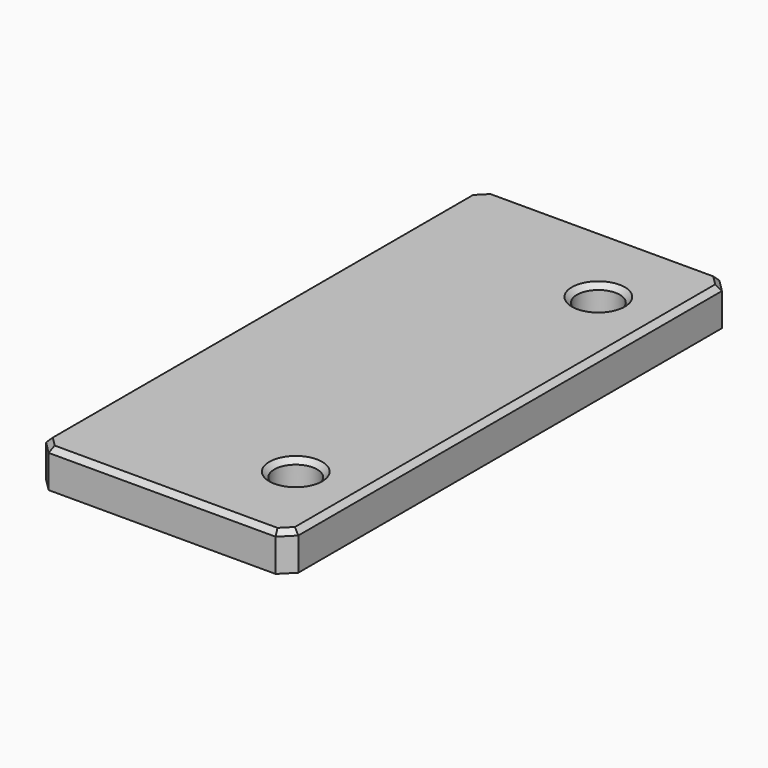
from build123d import *

# Parameters (mm, degrees)
CYLINDER030_R            = 1.7
CYLINDER030_DEPTH        = 30
CYLINDER029_R            = 1.7
CYLINDER029_DEPTH        = 30
BOX051016_W              = 20
BOX051016_H              = 44
BOX051016_DEPTH          = 3
CHAMFER034005002007_SIZE = 1
CHAMFER034005002008_SIZE = 0.4


with BuildPart() as cylinder030:
    # Cylinder030 → Cylinder030 (new body)
    with BuildSketch(Plane(origin=(-98, 37, -7), x_dir=(1, 0, 0), z_dir=(0, 0, 1))):
        Circle(CYLINDER030_R)
    extrude(amount=CYLINDER030_DEPTH)


with BuildPart() as fusion021005008:
    # Cylinder029 → Cylinder029 (new body)
    with BuildSketch(Plane(origin=(-98, 7, -7), x_dir=(1, 0, 0), z_dir=(0, 0, 1))):
        Circle(CYLINDER029_R)
    extrude(amount=CYLINDER029_DEPTH)

    # Fusion021005008: union Cylinder030
    add(cylinder030.part)


with BuildPart() as cable_route_cap:
    # Box051016 → Box051016 (new body)
    with BuildSketch(Plane(origin=(-113, 0, 7), x_dir=(1, 0, 0), z_dir=(0, 0, 1))):
        with Locations((10, 22)):
            Rectangle(BOX051016_W, BOX051016_H)
    extrude(amount=BOX051016_DEPTH)

    # Cut018011002005: cut Fusion021005008
    add(fusion021005008.part, mode=Mode.SUBTRACT)

    # Chamfer034005002007
    chamfer034005002007_edges = [cable_route_cap.edges().sort_by_distance(p)[0] for p in [
        (-113, 0, 8.5),
        (-113, 44, 8.5),
        (-93, 0, 8.5),
        (-93, 44, 8.5),
    ]]
    chamfer(chamfer034005002007_edges, length=CHAMFER034005002007_SIZE)

    # Chamfer034005002008
    chamfer034005002008_edges = [cable_route_cap.edges().sort_by_distance(p)[0] for p in [
        (-113, 22, 10),
        (-112.5, 0.5, 10),
        (-112.5, 43.5, 10),
        (-103, 0, 10),
        (-103, 44, 10),
        (-93.5, 0.5, 10),
        (-93.5, 43.5, 10),
        (-93, 22, 10),
        (-99.7, 7, 10),
        (-99.7, 37, 10),
    ]]
    chamfer(chamfer034005002008_edges, length=CHAMFER034005002008_SIZE)


solid = cable_route_cap.part
